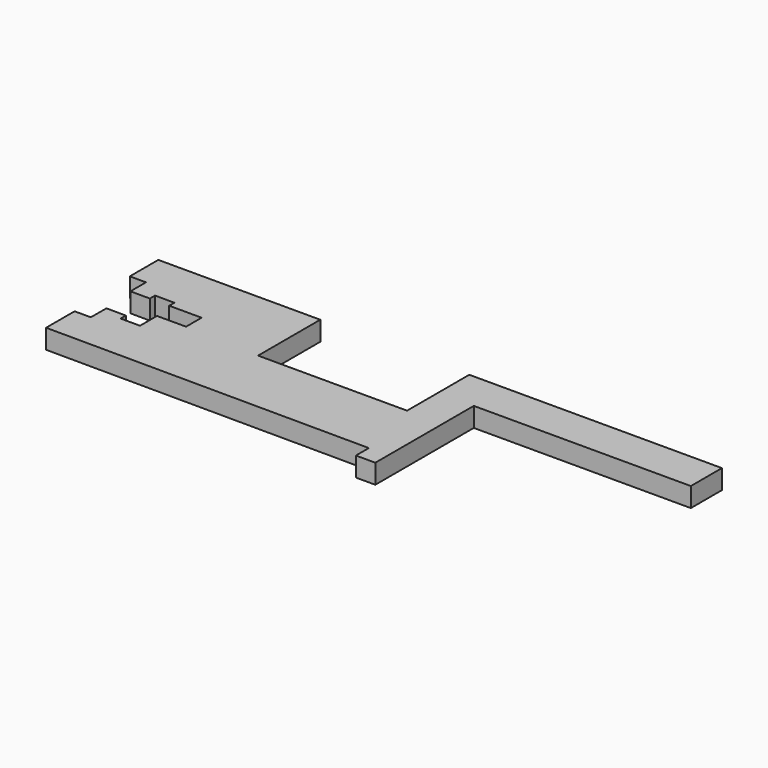
from build123d import *

# Parameters (mm, degrees)
F1_DEPTH = 7.62


with BuildPart() as f1:
    # F0 (on Top) → F1 (new body)
    with BuildSketch(Plane.XY):
        Polygon((-72.39, 56.586714), (-135.89, 56.586714), (-135.89, 42.616714), (-129.54, 42.616714), (-129.54, 34.996714), (-121.920075, 34.962917), (-121.908809, 37.502892), (-114.288884, 37.469095), (-114.288884, 34.929095), (-101.588884, 34.929095), (-101.588884, 27.309095), (-112.995104, 27.309095), (-112.995104, 21.522331), (-112.995104, 18.982331), (-120.615029, 19.016128), (-120.615029, 21.556128), (-128.234954, 21.589925), (-128.268751, 13.97), (-134.618751, 13.97), (-134.618751, 0), (-7.62, -0.563286), (-7.62, -6.913286), (0, -6.913286), (0, 41.346714), (85.09, 41.346714), (85.09, 56.586714), (-13.97, 56.586714), (-13.97, 26.106714), (-72.39, 26.106714), align=None)
    extrude(amount=F1_DEPTH)


solid = f1.part
